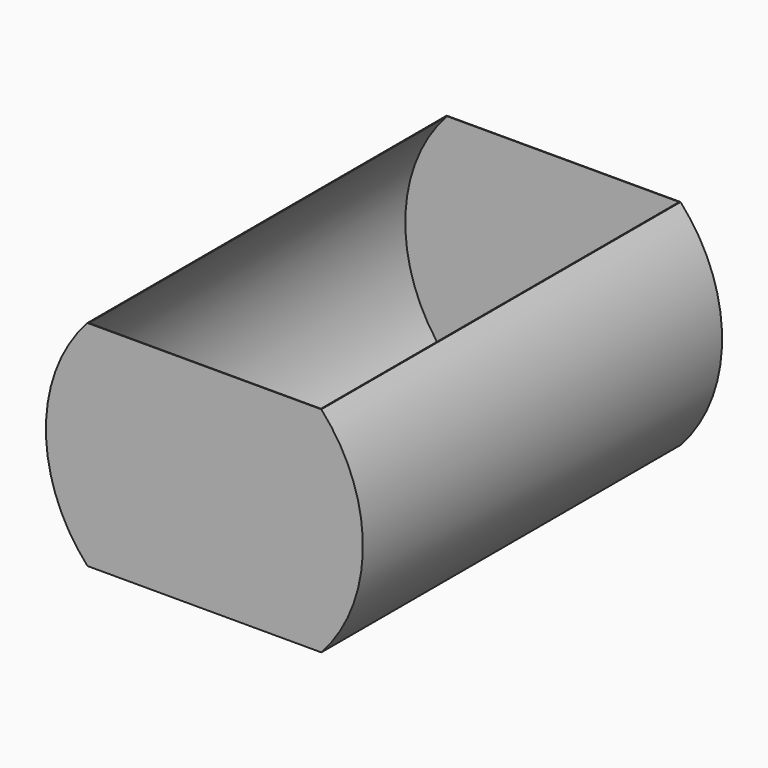
from build123d import *

# Parameters (mm, degrees)
F1_DEPTH = 1700
F2_T     = -2.5


with BuildPart() as f1:
    # F0 (on Front) → F1 (new body)
    with BuildSketch(Plane.XZ):
        with BuildLine():
            Line((442.690637, 405), (-442.690637, 405))
            ThreePointArc((-442.690637, 405), (-600, 0), (-442.690637, -405))
            Line((-442.690637, -405), (442.690637, -405))
            ThreePointArc((442.690637, -405), (600, 0), (442.690637, 405))
        make_face()
    extrude(amount=-F1_DEPTH)

    # F2
    f2_openings = [f1.faces().sort_by_distance(p)[0] for p in [
        (0, 850, 405),
    ]]
    offset(amount=F2_T, openings=f2_openings)


solid = f1.part
